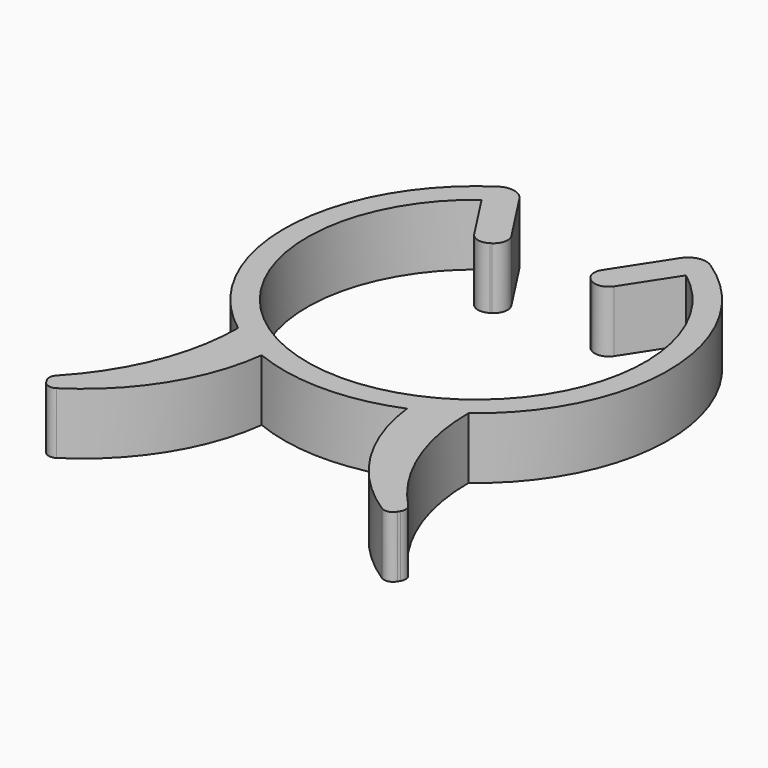
from build123d import *

# Parameters (mm, degrees)
CYLINDER_R        = 12.5
CYLINDER_DEPTH    = 4
CYLINDER001_R     = 11
CYLINDER001_DEPTH = 4
CYLINDER002_W     = 11
CYLINDER002_H     = 4
CYLINDER002_ANGLE = 66
BOX_W             = 5
BOX_H             = 1.9
BOX_DEPTH         = 4
BOX001_W          = 5
BOX001_H          = 1.9
BOX001_DEPTH      = 4
CYLINDER003_W     = 13
CYLINDER003_H     = 4
CYLINDER003_ANGLE = 60
CYLINDER004_W     = 14.25
CYLINDER004_H     = 4
CYLINDER004_ANGLE = 46
CYLINDER005_W     = 13
CYLINDER005_H     = 4
CYLINDER005_ANGLE = 60
CYLINDER006_W     = 14.25
CYLINDER006_H     = 4
CYLINDER006_ANGLE = 46
FILLET_R          = 0.9
FILLET001_R       = 0.6
FILLET002_R       = 1.2


with BuildPart() as part:
    # Cylinder → Cylinder (join)
    with BuildSketch(Plane.XY):
        Circle(CYLINDER_R)
    extrude(amount=CYLINDER_DEPTH)

    # Cylinder001 → Cylinder001 (cut)
    with BuildSketch(Plane.XY):
        Circle(CYLINDER001_R)
    extrude(amount=CYLINDER001_DEPTH, mode=Mode.SUBTRACT)

    # Cylinder002 → Cylinder002 (revolve, cut)
    with BuildSketch(Plane(origin=(0, 2, 0), x_dir=(0.544639035, 0.8386705679, 0), z_dir=(0.8386705679, -0.544639035, 0))):
        with Locations((5.5, 2)):
            Rectangle(CYLINDER002_W, CYLINDER002_H)
    revolve(axis=Axis((0, 2, 0), (0, 0, 1)), revolution_arc=CYLINDER002_ANGLE, mode=Mode.SUBTRACT)

    # Box → Box (join)
    with BuildSketch(Plane(origin=(5.2, 10, 0), x_dir=(-0.544639035, -0.8386705679, 0), z_dir=(0, 0, 1))):
        with Locations((2.5, 0.95)):
            Rectangle(BOX_W, BOX_H)
    extrude(amount=BOX_DEPTH)

    # Box001 → Box001 (join)
    with BuildSketch(Plane(origin=(-6.811, 9, 0), x_dir=(0.544639035, -0.8386705679, 0), z_dir=(0, 0, 1))):
        with Locations((2.5, 0.95)):
            Rectangle(BOX001_W, BOX001_H)
    extrude(amount=BOX001_DEPTH)

    # Cylinder003 → Cylinder003 (revolve)
    with BuildSketch(Plane(origin=(17.65, -10, 0), x_dir=(-1, 0, 0), z_dir=(0, 1, 0))):
        with Locations((6.5, 2)):
            Rectangle(CYLINDER003_W, CYLINDER003_H)
    revolve(axis=Axis((17.65, -10, 0), (0, 0, 1)), revolution_arc=CYLINDER003_ANGLE)

    # Cylinder004 → Cylinder004 (revolve, cut)
    with BuildSketch(Plane(origin=(21.75, -10, 0), x_dir=(-1, 0, 0), z_dir=(0, 1, 0))):
        with Locations((7.125, 2)):
            Rectangle(CYLINDER004_W, CYLINDER004_H)
    revolve(axis=Axis((21.75, -10, 0), (0, 0, 1)), revolution_arc=CYLINDER004_ANGLE, mode=Mode.SUBTRACT)

    # Cylinder005 → Cylinder005 (revolve)
    with BuildSketch(Plane(origin=(-17.6, -10, 0), x_dir=(0.5, -0.8660254038, 0), z_dir=(-0.8660254038, -0.5, 0))):
        with Locations((6.5, 2)):
            Rectangle(CYLINDER005_W, CYLINDER005_H)
    revolve(axis=Axis((-17.6, -10, 0), (0, 0, 1)), revolution_arc=CYLINDER005_ANGLE)

    # Cylinder006 → Cylinder006 (revolve, cut)
    with BuildSketch(Plane(origin=(-21.75, -10, 0), x_dir=(0.6946583705, -0.7193398003, 0), z_dir=(-0.7193398003, -0.6946583705, 0))):
        with Locations((7.125, 2)):
            Rectangle(CYLINDER006_W, CYLINDER006_H)
    revolve(axis=Axis((-21.75, -10, 0), (0, 0, 1)), revolution_arc=CYLINDER006_ANGLE, mode=Mode.SUBTRACT)

    # Fillet
    fillet_edges = [part.edges().sort_by_distance(p)[0] for p in [
        (-4.087805, 4.806647, 2),
        (-2.494331, 5.841461, 2),
        (4.070279, 4.771833, 2),
        (2.476805, 5.806647, 2),
    ]]
    fillet(fillet_edges, radius=FILLET_R)

    # Fillet001
    fillet001_edges = [part.edges().sort_by_distance(p)[0] for p in [
        (11.15, -21.25833, 2),
        (11.774728, -20.176269, 2),
        (-11.742835, -20.144907, 2),
        (-11.1, -21.25833, 2),
    ]]
    fillet(fillet001_edges, radius=FILLET001_R)

    # Fillet002
    fillet002_edges = [part.edges().sort_by_distance(p)[0] for p in [
        (-5.868544, 11.036765, 2),
        (5.868544, 11.036765, 2),
    ]]
    fillet(fillet002_edges, radius=FILLET002_R)


solid = part.part
